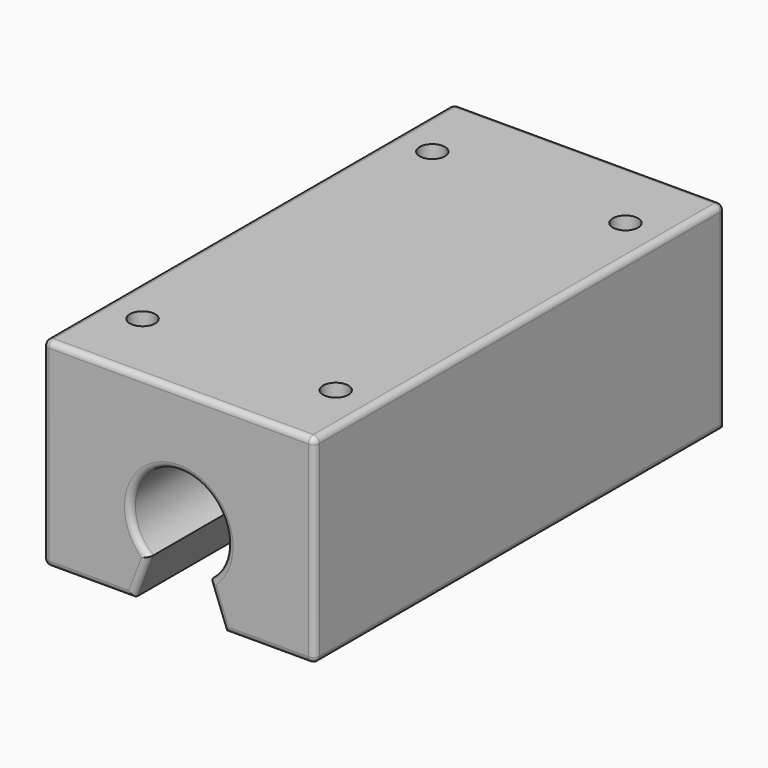
from build123d import *

# Parameters (mm, degrees)
F1_DEPTH = 85
F2_R     = 1
F4_D     = 4.2
F4_DEPTH = 14.4
F4_TIP   = 1.2618073


with BuildPart() as f1:
    # F0 (on Front) → F1 (new body)
    with BuildSketch(Plane.XZ):
        with BuildLine():
            Line((22.5, 16.5), (-22.5, 16.5))
            Line((-22.5, 16.5), (-22.5, -16.5))
            Line((-22.5, -16.5), (-7.5654657558, -16.5))
            Line((-7.5654657558, -16.5), (-5, -9.7449979984))
            ThreePointArc((-5, -9.7449979984), (0, 4.5), (5, -9.7449979984))
            Line((5, -9.7449979984), (7.5654657558, -16.5))
            Line((7.5654657558, -16.5), (22.5, -16.5))
            Line((22.5, -16.5), (22.5, 16.5))
        make_face()
    extrude(amount=F1_DEPTH)

    # F2
    f2_edges = [f1.edges().sort_by_distance(p)[0] for p in [
        (-22.5, -42.5, 16.5),
        (-22.5, -42.5, -16.5),
        (-22.5, 0, 0),
        (-22.5, -85, 0),
        (22.5, -42.5, 16.5),
        (0, 0, 16.5),
        (0, -85, 16.5),
        (-15.032733, -85, -16.5),
        (-6.282733, -85, -13.122499),
        (0, -85, 4.5),
        (6.282733, -85, -13.122499),
        (15.032733, -85, -16.5),
        (22.5, -85, 0),
        (22.5, -42.5, -16.5),
        (22.5, 0, 0),
    ]]
    fillet(f2_edges, radius=F2_R)

    # F4
    with Locations(Plane.XY.offset(16.5)):
        with Locations((-16, -12.5), (16, -12.5), (-16, -72.5), (16, -72.5)):
            Hole(F4_D / 2, depth=F4_DEPTH)
            with Locations((0, 0, -(F4_DEPTH + F4_TIP / 2))):  # 118° drill point
                Cone(0, F4_D / 2, F4_TIP, mode=Mode.SUBTRACT)


solid = f1.part
